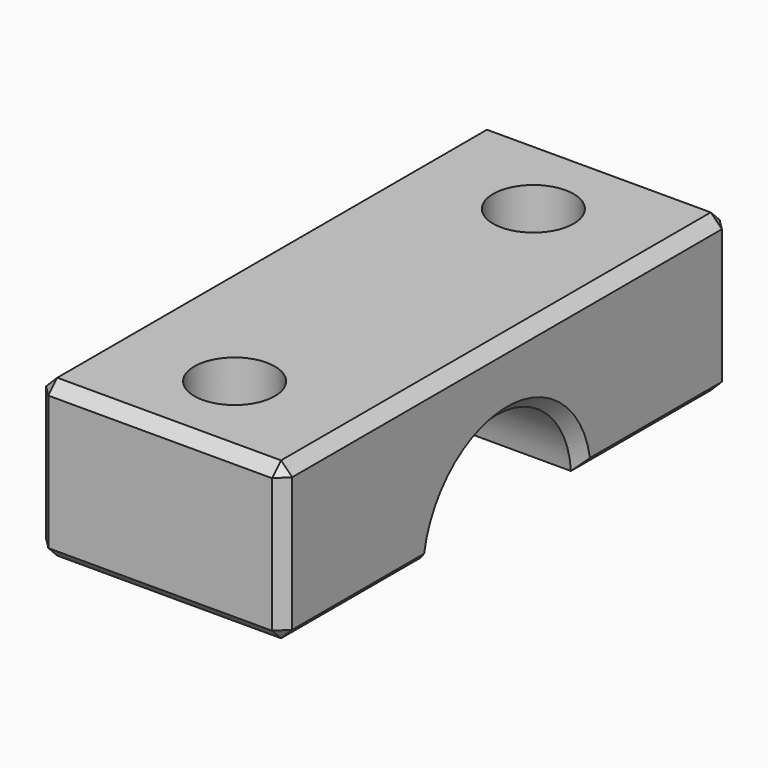
from build123d import *

# Parameters (mm, degrees)
F0_W     = 11
F0_H     = 25
F1_DEPTH = 7
F3_DEPTH = 11
F4_R     = 1.8
F5_DEPTH = 7
F6_SIZE  = 0.5


with BuildPart() as f1:
    # F0 (on Top) → F1 (new body)
    with BuildSketch(Plane.XY):
        Rectangle(F0_W, F0_H)
    extrude(amount=F1_DEPTH)

    # F2 (on face) → F3 (cut, through all)
    with BuildSketch(Plane.YZ.offset(5.5)):
        with BuildLine():
            Line((-4.1892720131, 0), (4.1892720131, 0))
            ThreePointArc((4.1892720131, 0), (0, 3.9), (-4.1892720131, 0))
        make_face()
    extrude(amount=-F3_DEPTH, mode=Mode.SUBTRACT)

    # F4 (on face) → F5 (cut, through all)
    with BuildSketch(Plane(origin=(0, 0, 0), x_dir=(1, 0, 0), z_dir=(0, 0, -1))):
        with Locations((0, 8.3446360066)):
            Circle(F4_R)
        with Locations((0, -8.3446360066)):
            Circle(F4_R)
    extrude(amount=-F5_DEPTH, mode=Mode.SUBTRACT)

    # F6
    f6_edges = [f1.edges().sort_by_distance(p)[0] for p in [
        (5.5, 0, 3.9),
        (5.5, 8.344636, 0),
        (0, 12.5, 0),
        (-5.5, 8.344636, 0),
        (5.5, -8.344636, 0),
        (0, -12.5, 0),
        (-5.5, -8.344636, 0),
        (5.5, -12.5, 3.5),
        (0, -12.5, 7),
        (-5.5, -12.5, 3.5),
        (5.5, 0, 7),
        (5.5, 12.5, 3.5),
        (0, 12.5, 7),
        (-5.5, 12.5, 3.5),
        (-5.5, 0, 7),
        (-5.5, 0, 3.9),
    ]]
    chamfer(f6_edges, length=F6_SIZE)


solid = f1.part
